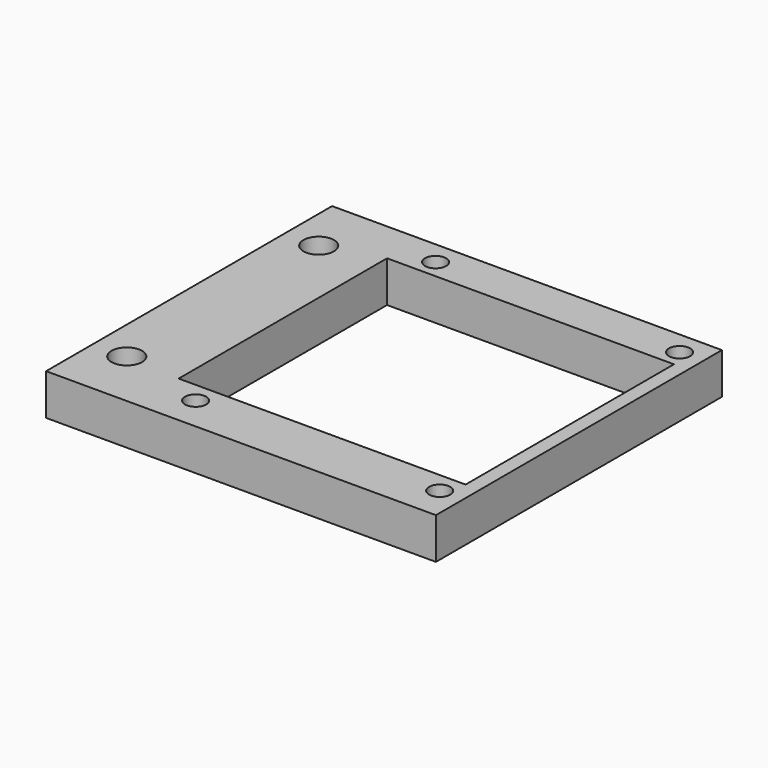
from build123d import *

# Parameters (mm, degrees)
F0_W      = 51.3
F0_H      = 60.8
F0_R      = 1.8
F0_W_2    = 48.792678
F0_H_2    = 44.301098
F1_DEPTH  = 7
F1_FACE_W = 60.8
F1_FACE_H = 7
F2_DEPTH  = 15
F3_R      = 2.6
F4_DEPTH  = 25


with BuildPart() as f1:
    # F0 (on Top) → F1 (new body)
    with BuildSketch(Plane.XY):
        with Locations((25.65, -30.4)):
            Rectangle(F0_W, F0_H)
        with Locations((5.8, -55)):
            Circle(F0_R, mode=Mode.SUBTRACT)
        with Locations((47.3, -55)):
            Circle(F0_R, mode=Mode.SUBTRACT)
        with Locations((24.478404, -29.314266)):
            Rectangle(F0_W_2, F0_H_2, mode=Mode.SUBTRACT)
        with Locations((5.8, -4)):
            Circle(F0_R, mode=Mode.SUBTRACT)
        with Locations((47.3, -4)):
            Circle(F0_R, mode=Mode.SUBTRACT)
    extrude(amount=F1_DEPTH)

    # F1_face (on face) → F2 (join)
    with BuildSketch(Plane(origin=(0, -30.4, 3.5), x_dir=(0, -1, 0), z_dir=(-1, 0, 0))):
        Rectangle(F1_FACE_W, F1_FACE_H)
    extrude(amount=F2_DEPTH)

    # F3 (on face) → F4 (cut)
    with BuildSketch(Plane.XY.offset(7)):
        with Locations((-9.274096, -10)):
            Circle(F3_R)
        with Locations((-9.274096, -50.8)):
            Circle(F3_R)
    extrude(amount=-F4_DEPTH, mode=Mode.SUBTRACT)


solid = f1.part
